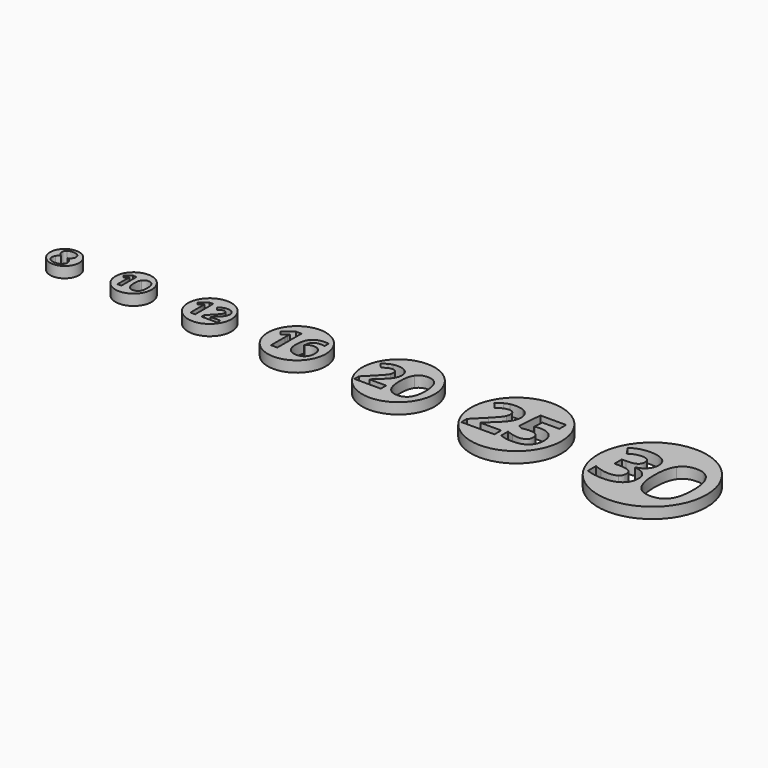
from build123d import *

# Parameters (mm, degrees)
F0_R     = 4
F1_DEPTH = 3
F0_R_2   = 5
F0_R_3   = 6
F0_R_4   = 8
F0_R_5   = 10
F0_R_6   = 15
F0_R_7   = 12.5


with BuildPart() as f1:
    # F0 (on Top) → F1 (new body)
    with BuildSketch(Plane.XY):
        with Locations((-162, 0)):
            Circle(F0_R)
        with BuildLine():
            add(Edge.make_bspline(
                [(-163.5341259825, 2.6937172986), (-162.9929833684, 3.0975749639), (-162.1226234495, 3.0975749639)],
                knots=[0, 0, 0, 1, 1, 1], degree=2))
            add(Edge.make_bspline(
                [(-162.1226234495, 3.0975749639), (-161.2469320763, 3.0975749639), (-160.7117873483, 2.6997151847)],
                knots=[0, 0, 0, 1, 1, 1], degree=2))
            add(Edge.make_bspline(
                [(-160.7117873483, 2.6997151847), (-160.1766426202, 2.3018554056), (-160.1766426202, 1.6274264333)],
                knots=[0, 0, 0, 1, 1, 1], degree=2))
            add(Edge.make_bspline(
                [(-160.1766426202, 1.6274264333), (-160.1766426202, 1.1609241797), (-160.4352181551, 0.7963859901)],
                knots=[0, 0, 0, 1, 1, 1], degree=2))
            add(Edge.make_bspline(
                [(-160.4352181551, 0.7963859901), (-160.6937936899, 0.4318478005), (-161.2682578936, 0.1452821304)],
                knots=[0, 0, 0, 1, 1, 1], degree=2))
            add(Edge.make_bspline(
                [(-161.2682578936, 0.1452821304), (-160.5858317398, -0.2212553546), (-160.2879367293, -0.6191151337)],
                knots=[0, 0, 0, 1, 1, 1], degree=2))
            add(Edge.make_bspline(
                [(-160.2879367293, -0.6191151337), (-159.9900417188, -1.0169749128), (-159.9900417188, -1.4928072115)],
                knots=[0, 0, 0, 1, 1, 1], degree=2))
            add(Edge.make_bspline(
                [(-159.9900417188, -1.4928072115), (-159.9900417188, -2.2418765444), (-160.5771681265, -2.6983823212)],
                knots=[0, 0, 0, 1, 1, 1], degree=2))
            add(Edge.make_bspline(
                [(-160.5771681265, -2.6983823212), (-161.1642945343, -3.1548880979), (-162.1226234495, -3.1548880979)],
                knots=[0, 0, 0, 1, 1, 1], degree=2))
            add(Edge.make_bspline(
                [(-162.1226234495, -3.1548880979), (-163.1222711358, -3.1548880979), (-163.6927367488, -2.7297046153)],
                knots=[0, 0, 0, 1, 1, 1], degree=2))
            add(Edge.make_bspline(
                [(-163.6927367488, -2.7297046153), (-164.2632023617, -2.3045211328), (-164.2632023617, -1.526128801)],
                knots=[0, 0, 0, 1, 1, 1], degree=2))
            add(Edge.make_bspline(
                [(-164.2632023617, -1.526128801), (-164.2632023617, -1.0049791406), (-163.9859667367, -0.6011214753)],
                knots=[0, 0, 0, 1, 1, 1], degree=2))
            add(Edge.make_bspline(
                [(-163.9859667367, -0.6011214753), (-163.7087311117, -0.1972638101), (-163.0969467277, 0.1119605409)],
                knots=[0, 0, 0, 1, 1, 1], degree=2))
            add(Edge.make_bspline(
                [(-163.0969467277, 0.1119605409), (-163.6180963882, 0.439844982), (-163.8466824924, 0.8150460802)],
                knots=[0, 0, 0, 1, 1, 1], degree=2))
            add(Edge.make_bspline(
                [(-163.8466824924, 0.8150460802), (-164.0752685967, 1.1902471785), (-164.0752685967, 1.6354236147)],
                knots=[0, 0, 0, 1, 1, 1], degree=2))
            add(Edge.make_bspline(
                [(-164.0752685967, 1.6354236147), (-164.0752685967, 2.2898596334), (-163.5341259825, 2.6937172986)],
                knots=[0, 0, 0, 1, 1, 1], degree=2))
        make_face(mode=Mode.SUBTRACT)
    extrude(amount=F1_DEPTH)


with BuildPart() as f1b:
    # F0 (on Top) → F1, piece 2 (new body)
    with BuildSketch(Plane.XY):
        with Locations((-143, 0)):
            Circle(F0_R_2)
        with BuildLine():
            Line((-144.2533369607, 2.5748827355), (-144.2533369607, -2.6192184647))
            Line((-144.2533369607, -2.6192184647), (-145.351498869, -2.6192184647))
            Line((-145.351498869, -2.6192184647), (-145.351498869, 0.3865166137))
            Line((-145.351498869, 0.3865166137), (-145.3401307333, 0.879893703))
            Line((-145.3401307333, 0.879893703), (-145.3230785298, 1.4198801486))
            add(Edge.make_bspline(
                [(-145.3230785298, 1.4198801486), (-145.5959137865, 1.1470448919), (-145.7027742621, 1.0617838742)],
                knots=[0, 0, 0, 1, 1, 1], degree=2))
            Line((-145.7027742621, 1.0617838742), (-146.2996013862, 0.5820485477))
            Line((-146.2996013862, 0.5820485477), (-146.8293565097, 1.2425372317))
            Line((-146.8293565097, 1.2425372317), (-145.155966935, 2.5748827355))
            Line((-145.155966935, 2.5748827355), (-144.2533369607, 2.5748827355))
        make_face(mode=Mode.SUBTRACT)
        with BuildLine():
            add(Edge.make_bspline(
                [(-139.6725466813, 1.9746451707), (-139.2127055924, 1.2925570288), (-139.2127055924, -0.0227362714)],
                knots=[0, 0, 0, 1, 1, 1], degree=2))
            add(Edge.make_bspline(
                [(-139.2127055924, -0.0227362714), (-139.2127055924, -1.3823653008), (-139.6583365117, -2.0366015102)],
                knots=[0, 0, 0, 1, 1, 1], degree=2))
            add(Edge.make_bspline(
                [(-139.6583365117, -2.0366015102), (-140.1039674311, -2.6908377196), (-141.031607304, -2.6908377196)],
                knots=[0, 0, 0, 1, 1, 1], degree=2))
            add(Edge.make_bspline(
                [(-141.031607304, -2.6908377196), (-141.9308268376, -2.6908377196), (-142.3872574859, -2.0155704592)],
                knots=[0, 0, 0, 1, 1, 1], degree=2))
            add(Edge.make_bspline(
                [(-142.3872574859, -2.0155704592), (-142.8436881342, -1.3403031987), (-142.8436881342, -0.0227362714)],
                knots=[0, 0, 0, 1, 1, 1], degree=2))
            add(Edge.make_bspline(
                [(-142.8436881342, -0.0227362714), (-142.8436881342, 1.352808148), (-142.3991940284, 2.0047707303)],
                knots=[0, 0, 0, 1, 1, 1], degree=2))
            add(Edge.make_bspline(
                [(-142.3991940284, 2.0047707303), (-141.9546999226, 2.6567333125), (-141.031607304, 2.6567333125)],
                knots=[0, 0, 0, 1, 1, 1], degree=2))
            add(Edge.make_bspline(
                [(-141.031607304, 2.6567333125), (-140.1323877703, 2.6567333125), (-139.6725466813, 1.9746451707)],
                knots=[0, 0, 0, 1, 1, 1], degree=2))
        make_face(mode=Mode.SUBTRACT)
    extrude(amount=F1_DEPTH)


with BuildPart() as f1c:
    # F0 (on Top) → F1, piece 3 (new body)
    with BuildSketch(Plane.XY):
        with Locations((-122, 0)):
            Circle(F0_R_3)
        with BuildLine():
            Line((-123.5173814721, 3.0823937527), (-123.5173814721, -3.1354680822))
            Line((-123.5173814721, -3.1354680822), (-124.8319917878, -3.1354680822))
            Line((-124.8319917878, -3.1354680822), (-124.8319917878, 0.462699283))
            Line((-124.8319917878, 0.462699283), (-124.8183829853, 1.0533213089))
            Line((-124.8183829853, 1.0533213089), (-124.7979697817, 1.6997394248))
            add(Edge.make_bspline(
                [(-124.7979697817, 1.6997394248), (-125.1245810402, 1.3731281662), (-125.2525037832, 1.2710621479)],
                knots=[0, 0, 0, 1, 1, 1], degree=2))
            Line((-125.2525037832, 1.2710621479), (-125.9669659113, 0.6967706849))
            Line((-125.9669659113, 0.6967706849), (-126.601136105, 1.4874421067))
            Line((-126.601136105, 1.4874421067), (-124.5979203858, 3.0823937527))
            Line((-124.5979203858, 3.0823937527), (-123.5173814721, 3.0823937527))
        make_face(mode=Mode.SUBTRACT)
        with BuildLine():
            Line((-117.4492164641, -2.0290724438), (-117.4492164641, -3.1354680822))
            Line((-117.4492164641, -3.1354680822), (-121.7958679634, -3.1354680822))
            Line((-121.7958679634, -3.1354680822), (-121.7958679634, -2.2209565582))
            Line((-121.7958679634, -2.2209565582), (-120.2349383235, -0.6436963554))
            add(Edge.make_bspline(
                [(-120.2349383235, -0.6436963554), (-119.5408893991, 0.066683132), (-119.328592081, 0.3409005011)],
                knots=[0, 0, 0, 1, 1, 1], degree=2))
            add(Edge.make_bspline(
                [(-119.328592081, 0.3409005011), (-119.116294763, 0.6151178703), (-119.0223940261, 0.8491892723)],
                knots=[0, 0, 0, 1, 1, 1], degree=2))
            add(Edge.make_bspline(
                [(-119.0223940261, 0.8491892723), (-118.9284932893, 1.0832606742), (-118.9284932893, 1.3336626391)],
                knots=[0, 0, 0, 1, 1, 1], degree=2))
            add(Edge.make_bspline(
                [(-118.9284932893, 1.3336626391), (-118.9284932893, 1.7079047062), (-119.1353470864, 1.890943099)],
                knots=[0, 0, 0, 1, 1, 1], degree=2))
            add(Edge.make_bspline(
                [(-119.1353470864, 1.890943099), (-119.3422008835, 2.0739814919), (-119.6865035852, 2.0739814919)],
                knots=[0, 0, 0, 1, 1, 1], degree=2))
            add(Edge.make_bspline(
                [(-119.6865035852, 2.0739814919), (-120.0471368499, 2.0739814919), (-120.3873569109, 1.9079541021)],
                knots=[0, 0, 0, 1, 1, 1], degree=2))
            add(Edge.make_bspline(
                [(-120.3873569109, 1.9079541021), (-120.7275769719, 1.7419267123), (-121.0977363982, 1.4357286574)],
                knots=[0, 0, 0, 1, 1, 1], degree=2))
            Line((-121.0977363982, 1.4357286574), (-121.8121985263, 2.2821961692))
            add(Edge.make_bspline(
                [(-121.8121985263, 2.2821961692), (-121.3535818841, 2.6741296795), (-121.0514664699, 2.8353939884)],
                knots=[0, 0, 0, 1, 1, 1], degree=2))
            add(Edge.make_bspline(
                [(-121.0514664699, 2.8353939884), (-120.7493510558, 2.9966582973), (-120.3921199917, 3.0837546329)],
                knots=[0, 0, 0, 1, 1, 1], degree=2))
            add(Edge.make_bspline(
                [(-120.3921199917, 3.0837546329), (-120.0348889277, 3.1708509685), (-119.5926028484, 3.1708509685)],
                knots=[0, 0, 0, 1, 1, 1], degree=2))
            add(Edge.make_bspline(
                [(-119.5926028484, 3.1708509685), (-119.0101461039, 3.1708509685), (-118.5637773839, 2.9585536505)],
                knots=[0, 0, 0, 1, 1, 1], degree=2))
            add(Edge.make_bspline(
                [(-118.5637773839, 2.9585536505), (-118.1174086639, 2.7462563324), (-117.8704088996, 2.3631685437)],
                knots=[0, 0, 0, 1, 1, 1], degree=2))
            add(Edge.make_bspline(
                [(-117.8704088996, 2.3631685437), (-117.6234091353, 1.980080755), (-117.6234091353, 1.4874421067)],
                knots=[0, 0, 0, 1, 1, 1], degree=2))
            add(Edge.make_bspline(
                [(-117.6234091353, 1.4874421067), (-117.6234091353, 1.0574039496), (-117.7744668424, 0.6811205621)],
                knots=[0, 0, 0, 1, 1, 1], degree=2))
            add(Edge.make_bspline(
                [(-117.7744668424, 0.6811205621), (-117.9255245495, 0.3048371747), (-118.2426096463, -0.0904985362)],
                knots=[0, 0, 0, 1, 1, 1], degree=2))
            add(Edge.make_bspline(
                [(-118.2426096463, -0.0904985362), (-118.5596947432, -0.4858342471), (-119.3585314464, -1.2179878184)],
                knots=[0, 0, 0, 1, 1, 1], degree=2))
            Line((-119.3585314464, -1.2179878184), (-120.1587290299, -1.9705545933))
            Line((-120.1587290299, -1.9705545933), (-120.1587290299, -2.0290724438))
            Line((-120.1587290299, -2.0290724438), (-117.4492164641, -2.0290724438))
        make_face(mode=Mode.SUBTRACT)
    extrude(amount=F1_DEPTH)


with BuildPart() as f1d:
    # F0 (on Top) → F1, piece 4 (new body)
    with BuildSketch(Plane.XY):
        with Locations((-98, 0)):
            Circle(F0_R_4)
        with BuildLine():
            Line((-100.0231752961, 4.1098583369), (-100.0231752961, -4.1806241096))
            Line((-100.0231752961, -4.1806241096), (-101.7759890503, -4.1806241096))
            Line((-101.7759890503, -4.1806241096), (-101.7759890503, 0.6169323773))
            Line((-101.7759890503, 0.6169323773), (-101.7578439804, 1.4044284118))
            Line((-101.7578439804, 1.4044284118), (-101.7306263755, 2.266319233))
            add(Edge.make_bspline(
                [(-101.7306263755, 2.266319233), (-102.1661080536, 1.8308375549), (-102.3366717109, 1.6947495305)],
                knots=[0, 0, 0, 1, 1, 1], degree=2))
            Line((-102.3366717109, 1.6947495305), (-103.2892878817, 0.9290275799))
            Line((-103.2892878817, 0.9290275799), (-104.1348481399, 1.9832561423))
            Line((-104.1348481399, 1.9832561423), (-101.4638938477, 4.1098583369))
            Line((-101.4638938477, 4.1098583369), (-100.0231752961, 4.1098583369))
        make_face(mode=Mode.SUBTRACT)
        with BuildLine():
            add(Edge.make_bspline(
                [(-97.4130069881, -2.6274061244), (-97.784073668, -1.810877978), (-97.784073668, -0.6586660381)],
                knots=[0, 0, 0, 1, 1, 1], degree=2))
            add(Edge.make_bspline(
                [(-97.784073668, -0.6586660381), (-97.784073668, 1.8018054431), (-96.743453908, 3.0039163253)],
                knots=[0, 0, 0, 1, 1, 1], degree=2))
            add(Edge.make_bspline(
                [(-96.743453908, 3.0039163253), (-95.7028341481, 4.2060272075), (-93.6270381493, 4.2060272075)],
                knots=[0, 0, 0, 1, 1, 1], degree=2))
            add(Edge.make_bspline(
                [(-93.6270381493, 4.2060272075), (-92.9193804224, 4.2060272075), (-92.5165598702, 4.1207453788)],
                knots=[0, 0, 0, 1, 1, 1], degree=2))
            Line((-92.5165598702, 4.1207453788), (-92.5165598702, 2.719945981))
            add(Edge.make_bspline(
                [(-92.5165598702, 2.719945981), (-93.020992814, 2.8342599215), (-93.5145387158, 2.8342599215)],
                knots=[0, 0, 0, 1, 1, 1], degree=2))
            add(Edge.make_bspline(
                [(-93.5145387158, 2.8342599215), (-94.4163486908, 2.8342599215), (-94.9861038863, 2.5620838727)],
                knots=[0, 0, 0, 1, 1, 1], degree=2))
            add(Edge.make_bspline(
                [(-94.9861038863, 2.5620838727), (-95.5558590818, 2.2899078239), (-95.8389221725, 1.7564427683)],
                knots=[0, 0, 0, 1, 1, 1], degree=2))
            add(Edge.make_bspline(
                [(-95.8389221725, 1.7564427683), (-96.1219852633, 1.2229777126), (-96.1727914591, 0.2431439369)],
                knots=[0, 0, 0, 1, 1, 1], degree=2))
            Line((-96.1727914591, 0.2431439369), (-96.1002111794, 0.2431439369))
            add(Edge.make_bspline(
                [(-96.1002111794, 0.2431439369), (-95.5377140119, 1.2066471497), (-94.3020347503, 1.2066471497)],
                knots=[0, 0, 0, 1, 1, 1], degree=2))
            add(Edge.make_bspline(
                [(-94.3020347503, 1.2066471497), (-93.1915564712, 1.2066471497), (-92.561922545, 0.5089692113)],
                knots=[0, 0, 0, 1, 1, 1], degree=2))
            add(Edge.make_bspline(
                [(-92.561922545, 0.5089692113), (-91.9322886188, -0.1887087272), (-91.9322886188, -1.4189444677)],
                knots=[0, 0, 0, 1, 1, 1], degree=2))
            add(Edge.make_bspline(
                [(-91.9322886188, -1.4189444677), (-91.9322886188, -2.7453490789), (-92.680772753, -3.5201435645)],
                knots=[0, 0, 0, 1, 1, 1], degree=2))
            add(Edge.make_bspline(
                [(-92.680772753, -3.5201435645), (-93.4292568872, -4.2949380501), (-94.7556614983, -4.2949380501)],
                knots=[0, 0, 0, 1, 1, 1], degree=2))
            add(Edge.make_bspline(
                [(-94.7556614983, -4.2949380501), (-95.6738020363, -4.2949380501), (-96.3578711722, -3.8694361604)],
                knots=[0, 0, 0, 1, 1, 1], degree=2))
            add(Edge.make_bspline(
                [(-96.3578711722, -3.8694361604), (-97.0419403082, -3.4439342708), (-97.4130069881, -2.6274061244)],
                knots=[0, 0, 0, 1, 1, 1], degree=2))
        make_face(mode=Mode.SUBTRACT)
    extrude(amount=F1_DEPTH)


with BuildPart() as f1e:
    # F0 (on Top) → F1, piece 5 (new body)
    with BuildSketch(Plane.XY):
        with Locations((-70, 0)):
            Circle(F0_R_5)
        with BuildLine():
            add(Edge.make_bspline(
                [(-63.3450933627, 3.9492903413), (-62.4254111847, 2.5851140576), (-62.4254111847, -0.0454725428)],
                knots=[0, 0, 0, 1, 1, 1], degree=2))
            add(Edge.make_bspline(
                [(-62.4254111847, -0.0454725428), (-62.4254111847, -2.7647306016), (-63.3166730234, -4.0732030204)],
                knots=[0, 0, 0, 1, 1, 1], degree=2))
            add(Edge.make_bspline(
                [(-63.3166730234, -4.0732030204), (-64.2079348621, -5.3816754392), (-66.0632146079, -5.3816754392)],
                knots=[0, 0, 0, 1, 1, 1], degree=2))
            add(Edge.make_bspline(
                [(-66.0632146079, -5.3816754392), (-67.8616536753, -5.3816754392), (-68.7745149718, -4.0311409183)],
                knots=[0, 0, 0, 1, 1, 1], degree=2))
            add(Edge.make_bspline(
                [(-68.7745149718, -4.0311409183), (-69.6873762683, -2.6806063975), (-69.6873762683, -0.0454725428)],
                knots=[0, 0, 0, 1, 1, 1], degree=2))
            add(Edge.make_bspline(
                [(-69.6873762683, -0.0454725428), (-69.6873762683, 2.705616296), (-68.7983880568, 4.0095414605)],
                knots=[0, 0, 0, 1, 1, 1], degree=2))
            add(Edge.make_bspline(
                [(-68.7983880568, 4.0095414605), (-67.9093998452, 5.313466625), (-66.0632146079, 5.313466625)],
                knots=[0, 0, 0, 1, 1, 1], degree=2))
            add(Edge.make_bspline(
                [(-66.0632146079, 5.313466625), (-64.2647755406, 5.313466625), (-63.3450933627, 3.9492903413)],
                knots=[0, 0, 0, 1, 1, 1], degree=2))
        make_face(mode=Mode.SUBTRACT)
        with BuildLine():
            Line((-70.6741304469, -3.389978065), (-70.6741304469, -5.2384369294))
            Line((-70.6741304469, -5.2384369294), (-77.9360955305, -5.2384369294))
            Line((-77.9360955305, -5.2384369294), (-77.9360955305, -3.7105594917))
            Line((-77.9360955305, -3.7105594917), (-75.3282452014, -1.075425637))
            add(Edge.make_bspline(
                [(-75.3282452014, -1.075425637), (-74.1686953603, 0.1114077298), (-73.8140095265, 0.5695435984)],
                knots=[0, 0, 0, 1, 1, 1], degree=2))
            add(Edge.make_bspline(
                [(-73.8140095265, 0.5695435984), (-73.4593236928, 1.0276794671), (-73.3024434201, 1.4187433351)],
                knots=[0, 0, 0, 1, 1, 1], degree=2))
            add(Edge.make_bspline(
                [(-73.3024434201, 1.4187433351), (-73.1455631475, 1.809807203), (-73.1455631475, 2.2281545967)],
                knots=[0, 0, 0, 1, 1, 1], degree=2))
            add(Edge.make_bspline(
                [(-73.1455631475, 2.2281545967), (-73.1455631475, 2.8534020601), (-73.4911544727, 3.1592049103)],
                knots=[0, 0, 0, 1, 1, 1], degree=2))
            add(Edge.make_bspline(
                [(-73.4911544727, 3.1592049103), (-73.8367457979, 3.4650077606), (-74.4119734642, 3.4650077606)],
                knots=[0, 0, 0, 1, 1, 1], degree=2))
            add(Edge.make_bspline(
                [(-74.4119734642, 3.4650077606), (-75.0144846562, 3.4650077606), (-75.5828914411, 3.1876252496)],
                knots=[0, 0, 0, 1, 1, 1], degree=2))
            add(Edge.make_bspline(
                [(-75.5828914411, 3.1876252496), (-76.1512982259, 2.9102427386), (-76.7697248079, 2.3986766322)],
                knots=[0, 0, 0, 1, 1, 1], degree=2))
            Line((-76.7697248079, 2.3986766322), (-77.9633790561, 3.812872713))
            add(Edge.make_bspline(
                [(-77.9633790561, 3.812872713), (-77.1971667101, 4.4676773291), (-76.6924214851, 4.7371021452)],
                knots=[0, 0, 0, 1, 1, 1], degree=2))
            add(Edge.make_bspline(
                [(-76.6924214851, 4.7371021452), (-76.1876762602, 5.0065269612), (-75.5908491361, 5.1520390981)],
                knots=[0, 0, 0, 1, 1, 1], degree=2))
            add(Edge.make_bspline(
                [(-75.5908491361, 5.1520390981), (-74.9940220119, 5.2975512351), (-74.2550931916, 5.2975512351)],
                knots=[0, 0, 0, 1, 1, 1], degree=2))
            add(Edge.make_bspline(
                [(-74.2550931916, 5.2975512351), (-73.2819807759, 5.2975512351), (-72.5362310741, 4.9428654013)],
                knots=[0, 0, 0, 1, 1, 1], degree=2))
            add(Edge.make_bspline(
                [(-72.5362310741, 4.9428654013), (-71.7904813724, 4.5881795675), (-71.3778180465, 3.9481535278)],
                knots=[0, 0, 0, 1, 1, 1], degree=2))
            add(Edge.make_bspline(
                [(-71.3778180465, 3.9481535278), (-70.9651547207, 3.308127488), (-70.9651547207, 2.4850744635)],
                knots=[0, 0, 0, 1, 1, 1], degree=2))
            add(Edge.make_bspline(
                [(-70.9651547207, 2.4850744635), (-70.9651547207, 1.7666082874), (-71.2175273332, 1.1379503833)],
                knots=[0, 0, 0, 1, 1, 1], degree=2))
            add(Edge.make_bspline(
                [(-71.2175273332, 1.1379503833), (-71.4698999457, 0.5092924792), (-71.9996550692, -0.1511962048)],
                knots=[0, 0, 0, 1, 1, 1], degree=2))
            add(Edge.make_bspline(
                [(-71.9996550692, -0.1511962048), (-72.5294101927, -0.8116848888), (-73.8640293236, -2.0348962899)],
                knots=[0, 0, 0, 1, 1, 1], degree=2))
            Line((-73.8640293236, -2.0348962899), (-75.2009220816, -3.292212098))
            Line((-75.2009220816, -3.292212098), (-75.2009220816, -3.389978065))
            Line((-75.2009220816, -3.389978065), (-70.6741304469, -3.389978065))
        make_face(mode=Mode.SUBTRACT)
    extrude(amount=F1_DEPTH)


with BuildPart() as f1f:
    # F0 (on Top) → F1, piece 6 (new body)
    with BuildSketch(Plane.XY):
        Circle(F0_R_6)
        with BuildLine():
            add(Edge.make_bspline(
                [(-3.0199452481, 6.9658251487), (-1.6182541165, 5.9853234448), (-1.6182541165, 4.2391778016)],
                knots=[0, 0, 0, 1, 1, 1], degree=2))
            add(Edge.make_bspline(
                [(-1.6182541165, 4.2391778016), (-1.6182541165, 2.779509178), (-2.5032634806, 1.7563769653)],
                knots=[0, 0, 0, 1, 1, 1], degree=2))
            add(Edge.make_bspline(
                [(-2.5032634806, 1.7563769653), (-3.3882728447, 0.7332447525), (-4.9877695373, 0.3478649523)],
                knots=[0, 0, 0, 1, 1, 1], degree=2))
            Line((-4.9877695373, 0.3478649523), (-4.9877695373, 0.2864770196))
            add(Edge.make_bspline(
                [(-4.9877695373, 0.2864770196), (-3.0983853844, 0.0511566106), (-2.1298202229, -0.8611362791)],
                knots=[0, 0, 0, 1, 1, 1], degree=2))
            add(Edge.make_bspline(
                [(-2.1298202229, -0.8611362791), (-1.1612550615, -1.7734291688), (-1.1612550615, -3.3183588101)],
                knots=[0, 0, 0, 1, 1, 1], degree=2))
            add(Edge.make_bspline(
                [(-1.1612550615, -3.3183588101), (-1.1612550615, -5.5658392375), (-2.7914457205, -6.8191761982)],
                knots=[0, 0, 0, 1, 1, 1], degree=2))
            add(Edge.make_bspline(
                [(-2.7914457205, -6.8191761982), (-4.4216363796, -8.0725131588), (-7.4466972887, -8.0725131588)],
                knots=[0, 0, 0, 1, 1, 1], degree=2))
            add(Edge.make_bspline(
                [(-7.4466972887, -8.0725131588), (-9.9840651764, -8.0725131588), (-11.9450685842, -7.2301343036)],
                knots=[0, 0, 0, 1, 1, 1], degree=2))
            Line((-11.9450685842, -7.2301343036), (-11.9450685842, -4.4267520406))
            add(Edge.make_bspline(
                [(-11.9450685842, -4.4267520406), (-11.0413017962, -4.8837510957), (-9.95337121, -5.1719333356)],
                knots=[0, 0, 0, 1, 1, 1], degree=2))
            add(Edge.make_bspline(
                [(-9.95337121, -5.1719333356), (-8.8654406237, -5.4601155755), (-7.8013831224, -5.4601155755)],
                knots=[0, 0, 0, 1, 1, 1], degree=2))
            add(Edge.make_bspline(
                [(-7.8013831224, -5.4601155755), (-6.1677820227, -5.4601155755), (-5.390201541, -4.9059189603)],
                knots=[0, 0, 0, 1, 1, 1], degree=2))
            add(Edge.make_bspline(
                [(-5.390201541, -4.9059189603), (-4.6126210593, -4.351722345), (-4.6126210593, -3.1239636897)],
                knots=[0, 0, 0, 1, 1, 1], degree=2))
            add(Edge.make_bspline(
                [(-4.6126210593, -3.1239636897), (-4.6126210593, -2.029212222), (-5.5078617455, -1.5705079466)],
                knots=[0, 0, 0, 1, 1, 1], degree=2))
            add(Edge.make_bspline(
                [(-5.5078617455, -1.5705079466), (-6.4031024316, -1.1118036712), (-8.3641058395, -1.1118036712)],
                knots=[0, 0, 0, 1, 1, 1], degree=2))
            Line((-8.3641058395, -1.1118036712), (-9.5475287656, -1.1118036712))
            Line((-9.5475287656, -1.1118036712), (-9.5475287656, 1.4153328943))
            Line((-9.5475287656, 1.4153328943), (-8.3436431952, 1.4153328943))
            add(Edge.make_bspline(
                [(-8.3436431952, 1.4153328943), (-6.5326991786, 1.4153328943), (-5.6954359845, 1.8893841529)],
                knots=[0, 0, 0, 1, 1, 1], degree=2))
            add(Edge.make_bspline(
                [(-5.6954359845, 1.8893841529), (-4.8581727903, 2.3634354115), (-4.8581727903, 3.5127539305)],
                knots=[0, 0, 0, 1, 1, 1], degree=2))
            add(Edge.make_bspline(
                [(-4.8581727903, 3.5127539305), (-4.8581727903, 5.2827726586), (-7.0749592514, 5.2827726586)],
                knots=[0, 0, 0, 1, 1, 1], degree=2))
            add(Edge.make_bspline(
                [(-7.0749592514, 5.2827726586), (-7.8423084109, 5.2827726586), (-8.6369410962, 5.0269896055)],
                knots=[0, 0, 0, 1, 1, 1], degree=2))
            add(Edge.make_bspline(
                [(-8.6369410962, 5.0269896055), (-9.4315737815, 4.7712065523), (-10.4001389429, 4.1436854618)],
                knots=[0, 0, 0, 1, 1, 1], degree=2))
            Line((-10.4001389429, 4.1436854618), (-11.9246059399, 6.4116285334))
            add(Edge.make_bspline(
                [(-11.9246059399, 6.4116285334), (-9.7930804966, 7.9463268526), (-6.8396388424, 7.9463268526)],
                knots=[0, 0, 0, 1, 1, 1], degree=2))
            add(Edge.make_bspline(
                [(-6.8396388424, 7.9463268526), (-4.4216363796, 7.9463268526), (-3.0199452481, 6.9658251487)],
                knots=[0, 0, 0, 1, 1, 1], degree=2))
        make_face(mode=Mode.SUBTRACT)
        with BuildLine():
            add(Edge.make_bspline(
                [(9.982359956, 5.923935512), (11.3618832229, 3.8776710864), (11.3618832229, -0.0682088142)],
                knots=[0, 0, 0, 1, 1, 1], degree=2))
            add(Edge.make_bspline(
                [(11.3618832229, -0.0682088142), (11.3618832229, -4.1470959025), (10.0249904649, -6.1098045306)],
                knots=[0, 0, 0, 1, 1, 1], degree=2))
            add(Edge.make_bspline(
                [(10.0249904649, -6.1098045306), (8.6880977068, -8.0725131588), (5.9051780881, -8.0725131588)],
                knots=[0, 0, 0, 1, 1, 1], degree=2))
            add(Edge.make_bspline(
                [(5.9051780881, -8.0725131588), (3.2075194871, -8.0725131588), (1.8382275423, -6.0467113775)],
                knots=[0, 0, 0, 1, 1, 1], degree=2))
            add(Edge.make_bspline(
                [(1.8382275423, -6.0467113775), (0.4689355975, -4.0209095962), (0.4689355975, -0.0682088142)],
                knots=[0, 0, 0, 1, 1, 1], degree=2))
            add(Edge.make_bspline(
                [(0.4689355975, -0.0682088142), (0.4689355975, 4.058424444), (1.8024179148, 6.0143121908)],
                knots=[0, 0, 0, 1, 1, 1], degree=2))
            add(Edge.make_bspline(
                [(1.8024179148, 6.0143121908), (3.1359002322, 7.9701999375), (5.9051780881, 7.9701999375)],
                knots=[0, 0, 0, 1, 1, 1], degree=2))
            add(Edge.make_bspline(
                [(5.9051780881, 7.9701999375), (8.6028366891, 7.9701999375), (9.982359956, 5.923935512)],
                knots=[0, 0, 0, 1, 1, 1], degree=2))
        make_face(mode=Mode.SUBTRACT)
    extrude(amount=F1_DEPTH)


with BuildPart() as f1g:
    # F0 (on Top) → F1, piece 7 (new body)
    with BuildSketch(Plane.XY):
        with Locations((-37.5, 0)):
            Circle(F0_R_7)
        with BuildLine():
            add(Edge.make_bspline(
                [(-33.5469064545, 1.6321159902), (-33.0009622265, 1.7578832469), (-32.1977667918, 1.7578832469)],
                knots=[0, 0, 0, 1, 1, 1], degree=2))
            add(Edge.make_bspline(
                [(-32.1977667918, 1.7578832469), (-30.3055412479, 1.7578832469), (-29.1836401513, 0.6945782585)],
                knots=[0, 0, 0, 1, 1, 1], degree=2))
            add(Edge.make_bspline(
                [(-29.1836401513, 0.6945782585), (-28.0617390547, -0.3687267298), (-28.0617390547, -2.2180770726)],
                knots=[0, 0, 0, 1, 1, 1], degree=2))
            add(Edge.make_bspline(
                [(-28.0617390547, -2.2180770726), (-28.0617390547, -4.4047123309), (-29.4108787174, -5.5852095358)],
                knots=[0, 0, 0, 1, 1, 1], degree=2))
            add(Edge.make_bspline(
                [(-29.4108787174, -5.5852095358), (-30.76001838, -6.7657067406), (-33.2696468204, -6.7657067406)],
                knots=[0, 0, 0, 1, 1, 1], degree=2))
            add(Edge.make_bspline(
                [(-33.2696468204, -6.7657067406), (-35.4505653853, -6.7657067406), (-36.788271661, -6.0596950951)],
                knots=[0, 0, 0, 1, 1, 1], degree=2))
            Line((-36.788271661, -6.0596950951), (-36.788271661, -3.6729755647))
            add(Edge.make_bspline(
                [(-36.788271661, -3.6729755647), (-36.0851183622, -4.0474189881), (-35.1461514572, -4.2846617677)],
                knots=[0, 0, 0, 1, 1, 1], degree=2))
            add(Edge.make_bspline(
                [(-35.1461514572, -4.2846617677), (-34.2071845521, -4.5219045474), (-33.3696889564, -4.5219045474)],
                knots=[0, 0, 0, 1, 1, 1], degree=2))
            add(Edge.make_bspline(
                [(-33.3696889564, -4.5219045474), (-30.8400520888, -4.5219045474), (-30.8400520888, -2.4496031587)],
                knots=[0, 0, 0, 1, 1, 1], degree=2))
            add(Edge.make_bspline(
                [(-30.8400520888, -2.4496031587), (-30.8400520888, -0.4744855593), (-33.4582977054, -0.4744855593)],
                knots=[0, 0, 0, 1, 1, 1], degree=2))
            add(Edge.make_bspline(
                [(-33.4582977054, -0.4744855593), (-33.929924918, -0.4744855593), (-34.5015942666, -0.5688110019)],
                knots=[0, 0, 0, 1, 1, 1], degree=2))
            add(Edge.make_bspline(
                [(-34.5015942666, -0.5688110019), (-35.0732636152, -0.6631364444), (-35.4305569581, -0.7717536206)],
                knots=[0, 0, 0, 1, 1, 1], degree=2))
            Line((-35.4305569581, -0.7717536206), (-36.5310204541, -0.1800758448))
            Line((-36.5310204541, -0.1800758448), (-36.0393848143, 6.4741553729))
            Line((-36.0393848143, 6.4741553729), (-28.9564015852, 6.4741553729))
            Line((-28.9564015852, 6.4741553729), (-28.9564015852, 4.1331693904))
            Line((-28.9564015852, 4.1331693904), (-33.618365123, 4.1331693904))
            Line((-33.618365123, 4.1331693904), (-33.8584662494, 1.5692323619))
            Line((-33.8584662494, 1.5692323619), (-33.5469064545, 1.6321159902))
        make_face(mode=Mode.SUBTRACT)
        with BuildLine():
            Line((-38.2631785804, -4.2617949938), (-38.2631785804, -6.5856308958))
            Line((-38.2631785804, -6.5856308958), (-47.3927380775, -6.5856308958))
            Line((-47.3927380775, -6.5856308958), (-47.3927380775, -4.6648218846))
            Line((-47.3927380775, -4.6648218846), (-44.1142143633, -1.3519980094))
            add(Edge.make_bspline(
                [(-44.1142143633, -1.3519980094), (-42.6564575243, 0.1400589904), (-42.2105554324, 0.7160158591)],
                knots=[0, 0, 0, 1, 1, 1], degree=2))
            add(Edge.make_bspline(
                [(-42.2105554324, 0.7160158591), (-41.7646533405, 1.2919727278), (-41.5674274153, 1.7836083676)],
                knots=[0, 0, 0, 1, 1, 1], degree=2))
            add(Edge.make_bspline(
                [(-41.5674274153, 1.7836083676), (-41.37020149, 2.2752440074), (-41.37020149, 2.8011798081)],
                knots=[0, 0, 0, 1, 1, 1], degree=2))
            add(Edge.make_bspline(
                [(-41.37020149, 2.8011798081), (-41.37020149, 3.5872251624), (-41.8046701949, 3.9716727994)],
                knots=[0, 0, 0, 1, 1, 1], degree=2))
            add(Edge.make_bspline(
                [(-41.8046701949, 3.9716727994), (-42.2391388999, 4.3561204363), (-42.9623006258, 4.3561204363)],
                knots=[0, 0, 0, 1, 1, 1], degree=2))
            add(Edge.make_bspline(
                [(-42.9623006258, 4.3561204363), (-43.7197625127, 4.3561204363), (-44.4343491985, 4.0074021337)],
                knots=[0, 0, 0, 1, 1, 1], degree=2))
            add(Edge.make_bspline(
                [(-44.4343491985, 4.0074021337), (-45.1489358842, 3.658683831), (-45.9264061983, 3.0155558138)],
                knots=[0, 0, 0, 1, 1, 1], degree=2))
            Line((-45.9264061983, 3.0155558138), (-47.4270382384, 4.793447488))
            add(Edge.make_bspline(
                [(-47.4270382384, 4.793447488), (-46.463775386, 5.61665135), (-45.8292224091, 5.955365439)],
                knots=[0, 0, 0, 1, 1, 1], degree=2))
            add(Edge.make_bspline(
                [(-45.8292224091, 5.955365439), (-45.1946694321, 6.2940795281), (-44.4443534121, 6.4770137196)],
                knots=[0, 0, 0, 1, 1, 1], degree=2))
            add(Edge.make_bspline(
                [(-44.4443534121, 6.4770137196), (-43.694037392, 6.6599479112), (-42.7650747006, 6.6599479112)],
                knots=[0, 0, 0, 1, 1, 1], degree=2))
            add(Edge.make_bspline(
                [(-42.7650747006, 6.6599479112), (-41.5417022946, 6.6599479112), (-40.6041645629, 6.2140458192)],
                knots=[0, 0, 0, 1, 1, 1], degree=2))
            add(Edge.make_bspline(
                [(-40.6041645629, 6.2140458192), (-39.6666268312, 5.7681437273), (-39.1478368973, 4.9635191192)],
                knots=[0, 0, 0, 1, 1, 1], degree=2))
            add(Edge.make_bspline(
                [(-39.1478368973, 4.9635191192), (-38.6290469635, 4.158894511), (-38.6290469635, 3.1241729901)],
                knots=[0, 0, 0, 1, 1, 1], degree=2))
            add(Edge.make_bspline(
                [(-38.6290469635, 3.1241729901), (-38.6290469635, 2.2209354193), (-38.9463234519, 1.4306025449)],
                knots=[0, 0, 0, 1, 1, 1], degree=2))
            add(Edge.make_bspline(
                [(-38.9463234519, 1.4306025449), (-39.2635999404, 0.6402696704), (-39.9295947315, -0.1900800584)],
                knots=[0, 0, 0, 1, 1, 1], degree=2))
            add(Edge.make_bspline(
                [(-39.9295947315, -0.1900800584), (-40.5955895227, -1.0204297872), (-42.2734390608, -2.558220335)],
                knots=[0, 0, 0, 1, 1, 1], degree=2))
            Line((-42.2734390608, -2.558220335), (-43.9541469457, -4.1388860838))
            Line((-43.9541469457, -4.1388860838), (-43.9541469457, -4.2617949938))
            Line((-43.9541469457, -4.2617949938), (-38.2631785804, -4.2617949938))
        make_face(mode=Mode.SUBTRACT)
    extrude(amount=F1_DEPTH)


solid = Compound([f1.part, f1b.part, f1c.part, f1d.part, f1e.part, f1f.part, f1g.part])
